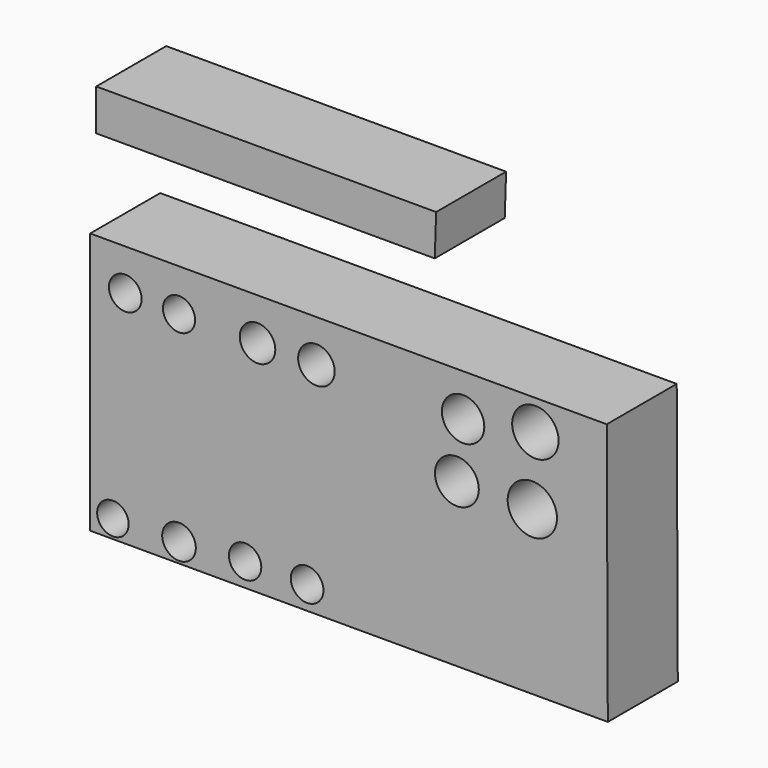
from build123d import *

# Parameters (mm, degrees)
F0_R     = 4.579255
F0_R_2   = 4.883592
F0_R_3   = 4.695691
F0_R_4   = 4.743361
F0_R_5   = 6.363888
F0_R_6   = 7.156034
F0_R_7   = 4.743362
F0_R_8   = 4.666852
F0_R_9   = 5.161338
F0_R_10  = 5.307482
F0_R_11  = 6.155416
F0_R_12  = 6.741585
F1_DEPTH = 25.4


with BuildPart() as f1:
    # F0 (on Front) → F1 (new body)
    with BuildSketch(Plane.XZ):
        Polygon((21.464689, 38.1508), (-77.243088, 38.1508), (-77.243088, 26.162), (21.065063, 26.162), align=None)
        Polygon((71.018398, 0), (-78.994002, 0), (-78.994002, -75.9968), (71.323201, -75.9968), align=None)
        with Locations((-72.406188, -70.733696)):
            Circle(F0_R, mode=Mode.SUBTRACT)
        with Locations((-53.206403, -70.433699)):
            Circle(F0_R_2, mode=Mode.SUBTRACT)
        with Locations((-34.006622, -69.233708)):
            Circle(F0_R_3, mode=Mode.SUBTRACT)
        with Locations((-16.006824, -69.233708)):
            Circle(F0_R_4, mode=Mode.SUBTRACT)
        with Locations((27.492685, -28.734166)):
            Circle(F0_R_5, mode=Mode.SUBTRACT)
        with Locations((49.392439, -28.734166)):
            Circle(F0_R_6, mode=Mode.SUBTRACT)
        with Locations((-68.806231, -11.934356)):
            Circle(F0_R_7, mode=Mode.SUBTRACT)
        with Locations((-53.206403, -12.234352)):
            Circle(F0_R_8, mode=Mode.SUBTRACT)
        with Locations((-30.406661, -12.234352)):
            Circle(F0_R_9, mode=Mode.SUBTRACT)
        with Locations((-13.306854, -12.234352)):
            Circle(F0_R_10, mode=Mode.SUBTRACT)
        with Locations((29.292665, -12.234352)):
            Circle(F0_R_11, mode=Mode.SUBTRACT)
        with Locations((50.292429, -8.752415)):
            Circle(F0_R_12, mode=Mode.SUBTRACT)
    extrude(amount=F1_DEPTH)


solid = f1.part
